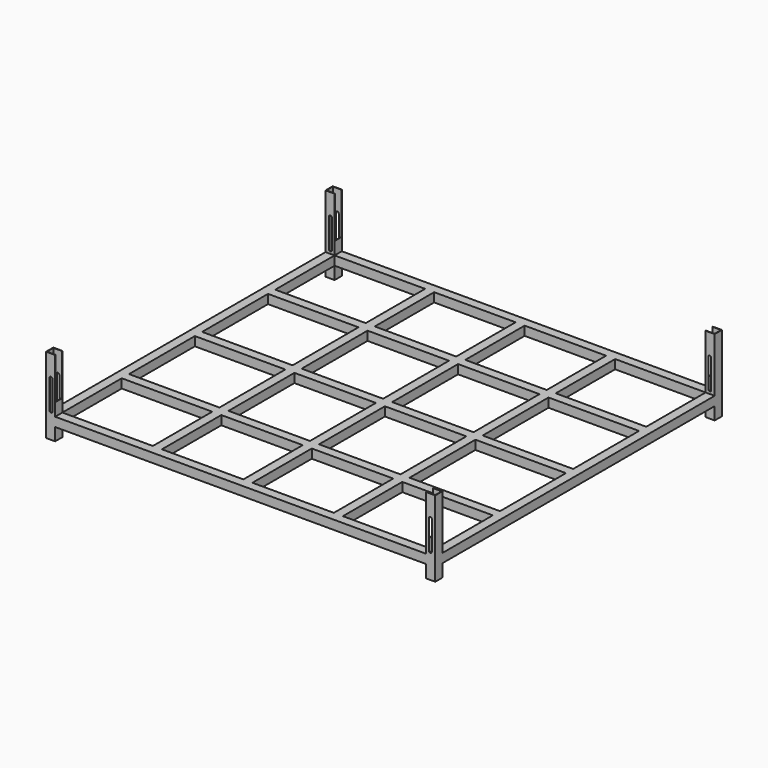
from build123d import *

# Parameters (mm, degrees)
F0_W          = 2150
F0_H          = 1980
F0_W_2        = 50
F0_H_2        = 50
F0_W_3        = 450
F0_W_4        = 500
F0_H_3        = 410
F0_H_4        = 455
F1_DEPTH      = 50
F2_W          = 50
F2_H          = 50
F3_DEPTH      = 300
F3_DEPTH_BACK = 120
F4_T          = -2.5
F5_W          = 45
F5_H          = 230
F6_DEPTH      = 25
F7_W          = 45
F7_H          = 230
F8_DEPTH      = 25
F9_W          = 45
F9_H          = 230
F10_DEPTH     = 25
F11_W         = 45
F11_H         = 230
F12_DEPTH     = 25
F13_W         = 16
F13_H         = 159
F14_DEPTH     = 1980


with BuildPart() as f1:
    # F0 (on Top) → F1 (new body)
    with BuildSketch(Plane.XY):
        Rectangle(F0_W, F0_H)
        Polygon((525, 940), (1025, 940), (1025, 530), (1025, 480), (1025, 25), (1025, -25), (1025, -480), (1025, -530), (1025, -940), (525, -940), (475, -940), (25, -940), (-25, -940), (-475, -940), (-525, -940), (-1025, -940), (-1025, -530), (-1025, -480), (-1025, -25), (-1025, 25), (-1025, 480), (-1025, 530), (-1025, 940), (-525, 940), (-475, 940), (-25, 940), (25, 940), (475, 940), align=None, mode=Mode.SUBTRACT)
        with Locations((-500, 505)):
            Rectangle(F0_W_2, F0_H_2)
        with Locations((-500, 0)):
            Rectangle(F0_W_2, F0_H_2)
        with Locations((-250, 505)):
            Rectangle(F0_W_3, F0_H_2)
        with Locations((0, 505)):
            Rectangle(F0_W_2, F0_H_2)
        with Locations((250, 505)):
            Rectangle(F0_W_3, F0_H_2)
        with Locations((500, 505)):
            Rectangle(F0_W_2, F0_H_2)
        with Locations((775, 505)):
            Rectangle(F0_W_4, F0_H_2)
        with Locations((500, 735)):
            Rectangle(F0_W_2, F0_H_3)
        with Locations((0, 735)):
            Rectangle(F0_W_2, F0_H_3)
        with Locations((-500, 735)):
            Rectangle(F0_W_2, F0_H_3)
        with Locations((-775, 505)):
            Rectangle(F0_W_4, F0_H_2)
        with Locations((-775, 0)):
            Rectangle(F0_W_4, F0_H_2)
        with Locations((-500, 252.5)):
            Rectangle(F0_W_2, F0_H_4)
        with Locations((-500, -252.5)):
            Rectangle(F0_W_2, F0_H_4)
        with Locations((-250, 0)):
            Rectangle(F0_W_3, F0_H_2)
        with Locations((0, 252.5)):
            Rectangle(F0_W_2, F0_H_4)
        with Locations((250, 0)):
            Rectangle(F0_W_3, F0_H_2)
        with Locations((500, 0)):
            Rectangle(F0_W_2, F0_H_2)
        with Locations((500, 252.5)):
            Rectangle(F0_W_2, F0_H_4)
        with Locations((775, 0)):
            Rectangle(F0_W_4, F0_H_2)
        with Locations((500, -252.5)):
            Rectangle(F0_W_2, F0_H_4)
        with Locations((775, -505)):
            Rectangle(F0_W_4, F0_H_2)
        with Locations((500, -505)):
            Rectangle(F0_W_2, F0_H_2)
        with Locations((500, -735)):
            Rectangle(F0_W_2, F0_H_3)
        with Locations((250, -505)):
            Rectangle(F0_W_3, F0_H_2)
        with Locations((0, -505)):
            Rectangle(F0_W_2, F0_H_2)
        with Locations((0, -252.5)):
            Rectangle(F0_W_2, F0_H_4)
        with Locations((0, -735)):
            Rectangle(F0_W_2, F0_H_3)
        with Locations((-250, -505)):
            Rectangle(F0_W_3, F0_H_2)
        with Locations((-500, -505)):
            Rectangle(F0_W_2, F0_H_2)
        with Locations((-775, -505)):
            Rectangle(F0_W_4, F0_H_2)
        with Locations((-500, -735)):
            Rectangle(F0_W_2, F0_H_3)
        Rectangle(F0_W_2, F0_H_2)
    extrude(amount=F1_DEPTH)

    # F2 (on face) → F3 (join, two sides)
    with BuildSketch(Plane.XY.offset(50)) as f3_sk:
        with Locations((1050, 965)):
            Rectangle(F2_W, F2_H)
        with Locations((1050, -965)):
            Rectangle(F2_W, F2_H)
        with Locations((-1050, -965)):
            Rectangle(F2_W, F2_H)
        with Locations((-1050, 965)):
            Rectangle(F2_W, F2_H)
    extrude(amount=F3_DEPTH)
    extrude(f3_sk.sketch, amount=-F3_DEPTH_BACK)

    # F4
    f4_openings = [f1.faces().sort_by_distance(p)[0] for p in [
        (-1050, -965, 350),
        (1050, -965, 350),
        (1050, 965, 350),
        (-1050, 965, 350),
    ]]
    offset(amount=F4_T, openings=f4_openings, kind=Kind.INTERSECTION)

    # F5 (on face) → F6 (cut)
    with BuildSketch(Plane.YZ.offset(-1025)):
        with Locations((-965, 235)):
            Rectangle(F5_W, F5_H)
    extrude(amount=-F6_DEPTH, mode=Mode.SUBTRACT)

    # F7 (on face) → F8 (cut)
    with BuildSketch(Plane.YZ.offset(-1025)):
        with Locations((965, 235)):
            Rectangle(F7_W, F7_H)
    extrude(amount=-F8_DEPTH, mode=Mode.SUBTRACT)

    # F9 (on face) → F10 (cut)
    with BuildSketch(Plane(origin=(1025, 0, 0), x_dir=(0, -1, 0), z_dir=(-1, 0, 0))):
        with Locations((965, 235)):
            Rectangle(F9_W, F9_H)
    extrude(amount=-F10_DEPTH, mode=Mode.SUBTRACT)

    # F11 (on face) → F12 (cut)
    with BuildSketch(Plane(origin=(1025, 0, 0), x_dir=(0, -1, 0), z_dir=(-1, 0, 0))):
        with Locations((-965, 235)):
            Rectangle(F11_W, F11_H)
    extrude(amount=-F12_DEPTH, mode=Mode.SUBTRACT)

    # F13 (on face) → F14 (cut, through all)
    with BuildSketch(Plane(origin=(0, 990, 0), x_dir=(-1, 0, 0), z_dir=(0, 1, 0))):
        with BuildLine():
            ThreePointArc((-1040, 229), (-1048, 237), (-1056, 229))
            Line((-1056, 229), (-1040, 229))
        make_face()
        with Locations((-1048, 149.5)):
            Rectangle(F13_W, F13_H)
        with BuildLine():
            Line((-1040, 70), (-1056, 70))
            ThreePointArc((-1056, 70), (-1048, 62), (-1040, 70))
        make_face()
        with BuildLine():
            ThreePointArc((1056, 229), (1048, 237), (1040, 229))
            Line((1040, 229), (1040, 70))
            ThreePointArc((1040, 70), (1048, 62), (1056, 70))
            Line((1056, 70), (1056, 229))
        make_face()
    extrude(amount=-F14_DEPTH, mode=Mode.SUBTRACT)


solid = f1.part
